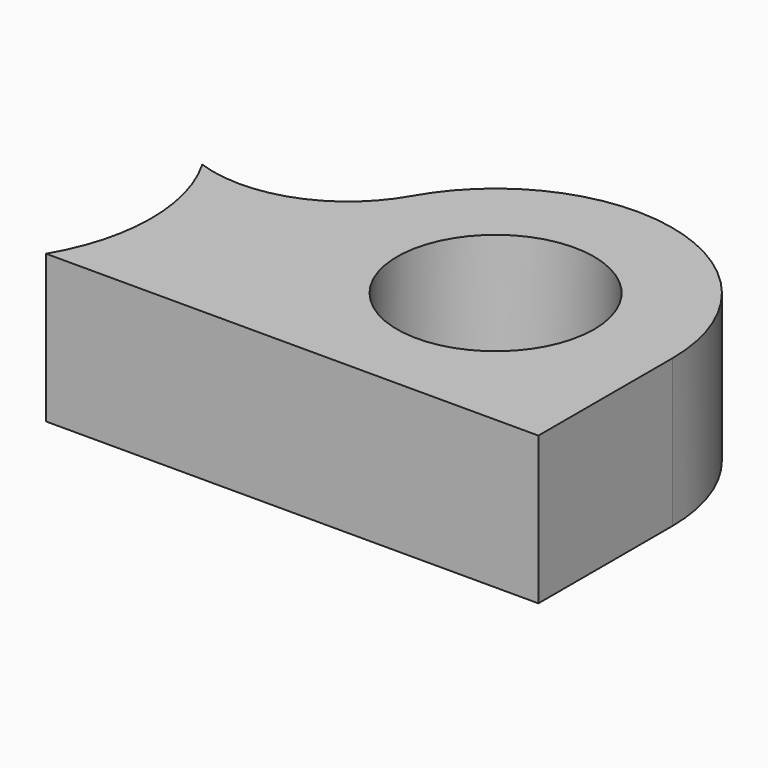
from build123d import *

# Parameters (mm, degrees)
F0_R     = 10
F1_DEPTH = 15


with BuildPart() as f1:
    # F0 (on Top) → F1 (new body)
    with BuildSketch(Plane.XY):
        with BuildLine():
            Line((-50, 0), (0, 0))
            Line((0, 0), (0, 17))
            ThreePointArc((0, 17), (-13.362749, 34.353466), (-33.554691, 25.868697))
            ThreePointArc((-33.554691, 25.868697), (-40.605343, 19.833852), (-49.884871, 19.6875))
            ThreePointArc((-49.884871, 19.6875), (-47.279619, 9.828178), (-50, 0))
        make_face()
        with Locations((-17.949369, 17)):
            Circle(F0_R, mode=Mode.SUBTRACT)
    extrude(amount=F1_DEPTH)


solid = f1.part
